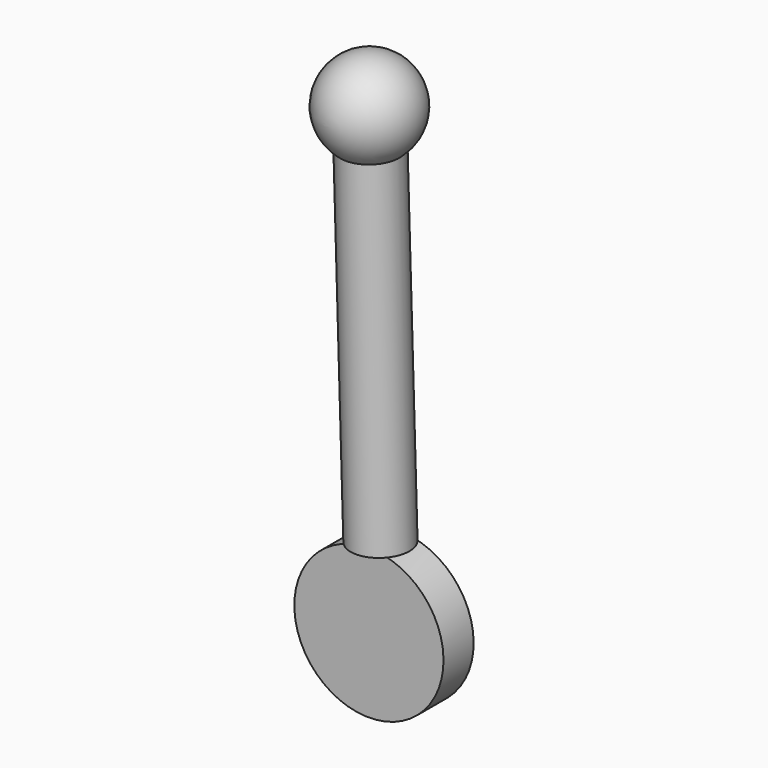
from build123d import *

# Parameters (mm, degrees)
F0_R     = 2.16
F1_DEPTH = 1.09
F3_DEPTH = 25
F4_R     = 0.84
F5_DEPTH = 11


with BuildPart() as f1:
    # F0 (on Front) → F1 (new body)
    with BuildSketch(Plane.XZ):
        Circle(F0_R)
    extrude(amount=F1_DEPTH)

    # F2 (on face) → F3 (cut)
    with BuildSketch(Plane.XZ.offset(1.09)):
        with BuildLine():
            ThreePointArc((0.3967272328, 2.1232539892), (-0.0627415539, 2.1590885803), (-0.5193541089, 2.0966333274))
            Line((-0.5193541089, 2.0966333274), (0.3967272328, 2.1232539892))
        make_face()
    extrude(amount=-F3_DEPTH, mode=Mode.SUBTRACT)

    # F4 (on face) → F5 (join)
    with BuildSketch(Plane(origin=(-0.061313438, 0, 2.1099436583), x_dir=(0.9995780464, 0, 0.0290470157), z_dir=(-0.0290470157, 0, 0.9995780464))):
        with Locations((0, -0.5952777421)):
            Circle(F4_R)
    extrude(amount=F5_DEPTH)

    # F6 (on face) → F7 (revolve)
    with BuildSketch(Plane(origin=(-0.3808306108, 0, 13.1053021689), x_dir=(0.9995780464, 0, 0.0290470157), z_dir=(-0.0290470157, 0, 0.9995780464))):
        with BuildLine():
            Line((0, 0.2447222579), (0, 0.7597222579))
            ThreePointArc((0, 0.7597222579), (-1.355, -0.5952777421), (0, -1.9502777421))
            Line((0, -1.9502777421), (0, -1.4352777421))
            ThreePointArc((0, -1.4352777421), (-0.84, -0.5952777421), (0, 0.2447222579))
        make_face()
    revolve(axis=Axis((-0.3808306108, -0.5952777421, 13.1053021689), (0, -1, 0)))


solid = f1.part
